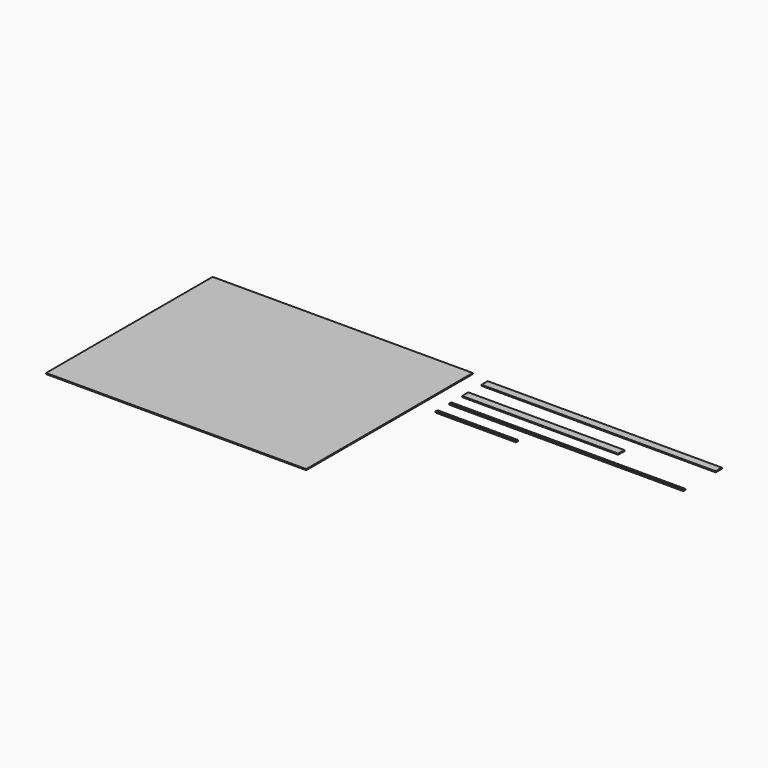
from build123d import *

# Parameters (mm, degrees)
F0_W     = 5000
F0_H     = 4000
F0_W_2   = 4500
F0_H_2   = 150
F0_W_3   = 3000
F0_H_3   = 50
F0_W_4   = 1550
F1_DEPTH = 20


with BuildPart() as f1:
    # F0 (on Top) → F1 (new body)
    with BuildSketch(Plane.XY):
        with Locations((-1352.511052, -6.553624)):
            Rectangle(F0_W, F0_H)
        with Locations((3738.55567, 1851.662469)):
            Rectangle(F0_W_2, F0_H_2)
        with Locations((2988.55567, 1384.410095)):
            Rectangle(F0_W_3, F0_H_2)
        with Locations((3738.55567, 1021.046543)):
            Rectangle(F0_W_2, F0_H_3)
        with Locations((2263.55567, 691.849494)):
            Rectangle(F0_W_4, F0_H_3)
    extrude(amount=F1_DEPTH)


solid = f1.part
